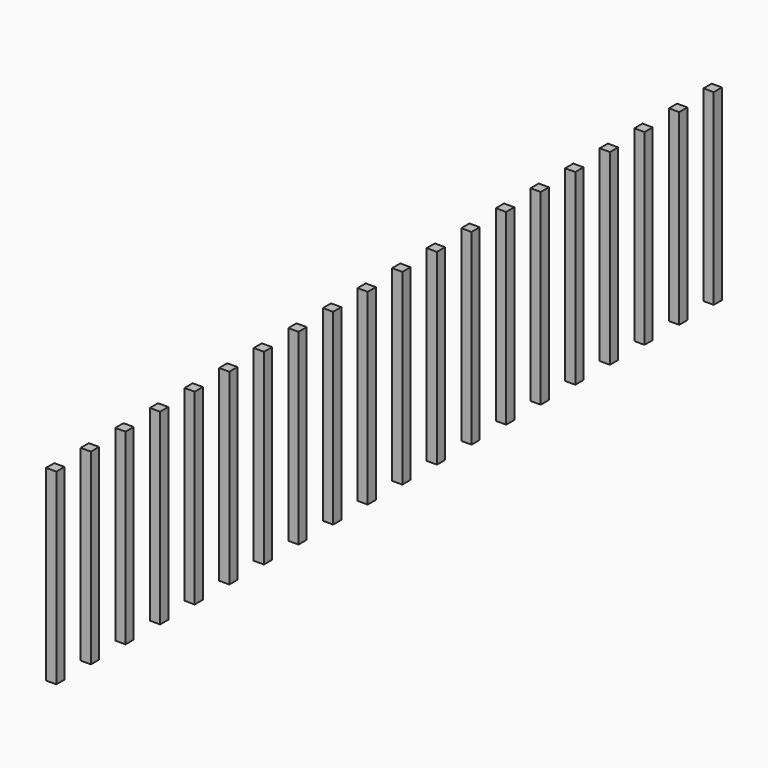
from build123d import *

# Parameters (mm, degrees)
BOX008_W     = 0.6
BOX008_H     = 0.6
BOX008_DEPTH = 11
BOX009_W     = 0.6
BOX009_H     = 0.6
BOX009_DEPTH = 11
BOX010_W     = 0.6
BOX010_H     = 0.6
BOX010_DEPTH = 11
BOX012_W     = 0.6
BOX012_H     = 0.6
BOX012_DEPTH = 11
BOX011_W     = 0.6
BOX011_H     = 0.6
BOX011_DEPTH = 11
BOX019_W     = 0.6
BOX019_H     = 0.6
BOX019_DEPTH = 11
BOX020_W     = 0.6
BOX020_H     = 0.6
BOX020_DEPTH = 11
BOX021_W     = 0.6
BOX021_H     = 0.6
BOX021_DEPTH = 11
BOX022_W     = 0.6
BOX022_H     = 0.6
BOX022_DEPTH = 11
BOX018_W     = 0.6
BOX018_H     = 0.6
BOX018_DEPTH = 11
BOX014_W     = 0.6
BOX014_H     = 0.6
BOX014_DEPTH = 11
BOX015_W     = 0.6
BOX015_H     = 0.6
BOX015_DEPTH = 11
BOX016_W     = 0.6
BOX016_H     = 0.6
BOX016_DEPTH = 11
BOX017_W     = 0.6
BOX017_H     = 0.6
BOX017_DEPTH = 11
BOX013_W     = 0.6
BOX013_H     = 0.6
BOX013_DEPTH = 11
BOX004_W     = 0.6
BOX004_H     = 0.6
BOX004_DEPTH = 11
BOX005_W     = 0.6
BOX005_H     = 0.6
BOX005_DEPTH = 11
BOX006_W     = 0.6
BOX006_H     = 0.6
BOX006_DEPTH = 11
BOX007_W     = 0.6
BOX007_H     = 0.6
BOX007_DEPTH = 11
BOX003_W     = 0.6
BOX003_H     = 0.6
BOX003_DEPTH = 11


with BuildPart() as obj1:
    # Box008 → Box008 (new body)
    with BuildSketch(Plane(origin=(-0.3, -2.84, 0), x_dir=(1, 0, 0), z_dir=(0, 0, 1))):
        with Locations((0.3, 0.3)):
            Rectangle(BOX008_W, BOX008_H)
    extrude(amount=BOX008_DEPTH)


with BuildPart() as obj2:
    # Box009 → Box009 (new body)
    with BuildSketch(Plane(origin=(-0.3, -5.38, 0), x_dir=(1, 0, 0), z_dir=(0, 0, 1))):
        with Locations((0.3, 0.3)):
            Rectangle(BOX009_W, BOX009_H)
    extrude(amount=BOX009_DEPTH)


with BuildPart() as obj3:
    # Box010 → Box010 (new body)
    with BuildSketch(Plane(origin=(-0.3, -7.92, 0), x_dir=(1, 0, 0), z_dir=(0, 0, 1))):
        with Locations((0.3, 0.3)):
            Rectangle(BOX010_W, BOX010_H)
    extrude(amount=BOX010_DEPTH)


with BuildPart() as obj4:
    # Box012 → Box012 (new body)
    with BuildSketch(Plane(origin=(-0.3, -10.46, 0), x_dir=(1, 0, 0), z_dir=(0, 0, 1))):
        with Locations((0.3, 0.3)):
            Rectangle(BOX012_W, BOX012_H)
    extrude(amount=BOX012_DEPTH)


with BuildPart() as fusion001:
    # Box011 → Box011 (new body)
    with BuildSketch(Plane(origin=(-0.3, -0.3, 0), x_dir=(1, 0, 0), z_dir=(0, 0, 1))):
        with Locations((0.3, 0.3)):
            Rectangle(BOX011_W, BOX011_H)
    extrude(amount=BOX011_DEPTH)

    # Fusion001: union obj1, obj2, obj3, obj4
    add(obj1.part)
    add(obj2.part)
    add(obj3.part)
    add(obj4.part)


with BuildPart() as fusion001_1:
    # Fusion001 placement: moved
    add(fusion001.part.moved(Location((0, -12.7, 0))))


with BuildPart() as obj5:
    # Box019 → Box019 (new body)
    with BuildSketch(Plane(origin=(-0.3, -2.84, 0), x_dir=(1, 0, 0), z_dir=(0, 0, 1))):
        with Locations((0.3, 0.3)):
            Rectangle(BOX019_W, BOX019_H)
    extrude(amount=BOX019_DEPTH)


with BuildPart() as obj6:
    # Box020 → Box020 (new body)
    with BuildSketch(Plane(origin=(-0.3, -5.38, 0), x_dir=(1, 0, 0), z_dir=(0, 0, 1))):
        with Locations((0.3, 0.3)):
            Rectangle(BOX020_W, BOX020_H)
    extrude(amount=BOX020_DEPTH)


with BuildPart() as obj7:
    # Box021 → Box021 (new body)
    with BuildSketch(Plane(origin=(-0.3, -7.92, 0), x_dir=(1, 0, 0), z_dir=(0, 0, 1))):
        with Locations((0.3, 0.3)):
            Rectangle(BOX021_W, BOX021_H)
    extrude(amount=BOX021_DEPTH)


with BuildPart() as obj8:
    # Box022 → Box022 (new body)
    with BuildSketch(Plane(origin=(-0.3, -10.46, 0), x_dir=(1, 0, 0), z_dir=(0, 0, 1))):
        with Locations((0.3, 0.3)):
            Rectangle(BOX022_W, BOX022_H)
    extrude(amount=BOX022_DEPTH)


with BuildPart() as fusion003:
    # Box018 → Box018 (new body)
    with BuildSketch(Plane(origin=(-0.3, -0.3, 0), x_dir=(1, 0, 0), z_dir=(0, 0, 1))):
        with Locations((0.3, 0.3)):
            Rectangle(BOX018_W, BOX018_H)
    extrude(amount=BOX018_DEPTH)

    # Fusion003: union obj5, obj6, obj7, obj8
    add(obj5.part)
    add(obj6.part)
    add(obj7.part)
    add(obj8.part)


with BuildPart() as fusion003_1:
    # Fusion003 placement: moved
    add(fusion003.part.moved(Location((0, -38.1, 0))))


with BuildPart() as obj9:
    # Box014 → Box014 (new body)
    with BuildSketch(Plane(origin=(-0.3, -2.84, 0), x_dir=(1, 0, 0), z_dir=(0, 0, 1))):
        with Locations((0.3, 0.3)):
            Rectangle(BOX014_W, BOX014_H)
    extrude(amount=BOX014_DEPTH)


with BuildPart() as obj10:
    # Box015 → Box015 (new body)
    with BuildSketch(Plane(origin=(-0.3, -5.38, 0), x_dir=(1, 0, 0), z_dir=(0, 0, 1))):
        with Locations((0.3, 0.3)):
            Rectangle(BOX015_W, BOX015_H)
    extrude(amount=BOX015_DEPTH)


with BuildPart() as obj11:
    # Box016 → Box016 (new body)
    with BuildSketch(Plane(origin=(-0.3, -7.92, 0), x_dir=(1, 0, 0), z_dir=(0, 0, 1))):
        with Locations((0.3, 0.3)):
            Rectangle(BOX016_W, BOX016_H)
    extrude(amount=BOX016_DEPTH)


with BuildPart() as obj12:
    # Box017 → Box017 (new body)
    with BuildSketch(Plane(origin=(-0.3, -10.46, 0), x_dir=(1, 0, 0), z_dir=(0, 0, 1))):
        with Locations((0.3, 0.3)):
            Rectangle(BOX017_W, BOX017_H)
    extrude(amount=BOX017_DEPTH)


with BuildPart() as fusion002:
    # Box013 → Box013 (new body)
    with BuildSketch(Plane(origin=(-0.3, -0.3, 0), x_dir=(1, 0, 0), z_dir=(0, 0, 1))):
        with Locations((0.3, 0.3)):
            Rectangle(BOX013_W, BOX013_H)
    extrude(amount=BOX013_DEPTH)

    # Fusion002: union obj9, obj10, obj11, obj12
    add(obj9.part)
    add(obj10.part)
    add(obj11.part)
    add(obj12.part)


with BuildPart() as fusion002_1:
    # Fusion002 placement: moved
    add(fusion002.part.moved(Location((0, -25.4, 0))))


with BuildPart() as obj13:
    # Box004 → Box004 (new body)
    with BuildSketch(Plane(origin=(-0.3, -2.84, 0), x_dir=(1, 0, 0), z_dir=(0, 0, 1))):
        with Locations((0.3, 0.3)):
            Rectangle(BOX004_W, BOX004_H)
    extrude(amount=BOX004_DEPTH)


with BuildPart() as obj14:
    # Box005 → Box005 (new body)
    with BuildSketch(Plane(origin=(-0.3, -5.38, 0), x_dir=(1, 0, 0), z_dir=(0, 0, 1))):
        with Locations((0.3, 0.3)):
            Rectangle(BOX005_W, BOX005_H)
    extrude(amount=BOX005_DEPTH)


with BuildPart() as obj15:
    # Box006 → Box006 (new body)
    with BuildSketch(Plane(origin=(-0.3, -7.92, 0), x_dir=(1, 0, 0), z_dir=(0, 0, 1))):
        with Locations((0.3, 0.3)):
            Rectangle(BOX006_W, BOX006_H)
    extrude(amount=BOX006_DEPTH)


with BuildPart() as obj16:
    # Box007 → Box007 (new body)
    with BuildSketch(Plane(origin=(-0.3, -10.46, 0), x_dir=(1, 0, 0), z_dir=(0, 0, 1))):
        with Locations((0.3, 0.3)):
            Rectangle(BOX007_W, BOX007_H)
    extrude(amount=BOX007_DEPTH)


with BuildPart() as fusion004:
    # Box003 → Box003 (new body)
    with BuildSketch(Plane(origin=(-0.3, -0.3, 0), x_dir=(1, 0, 0), z_dir=(0, 0, 1))):
        with Locations((0.3, 0.3)):
            Rectangle(BOX003_W, BOX003_H)
    extrude(amount=BOX003_DEPTH)

    # Fusion: union obj13, obj14, obj15, obj16
    add(obj13.part)
    add(obj14.part)
    add(obj15.part)
    add(obj16.part)

    # Fusion004: union Fusion001, Fusion003, Fusion002
    add(fusion001_1.part)
    add(fusion003_1.part)
    add(fusion002_1.part)


solid = fusion004.part
